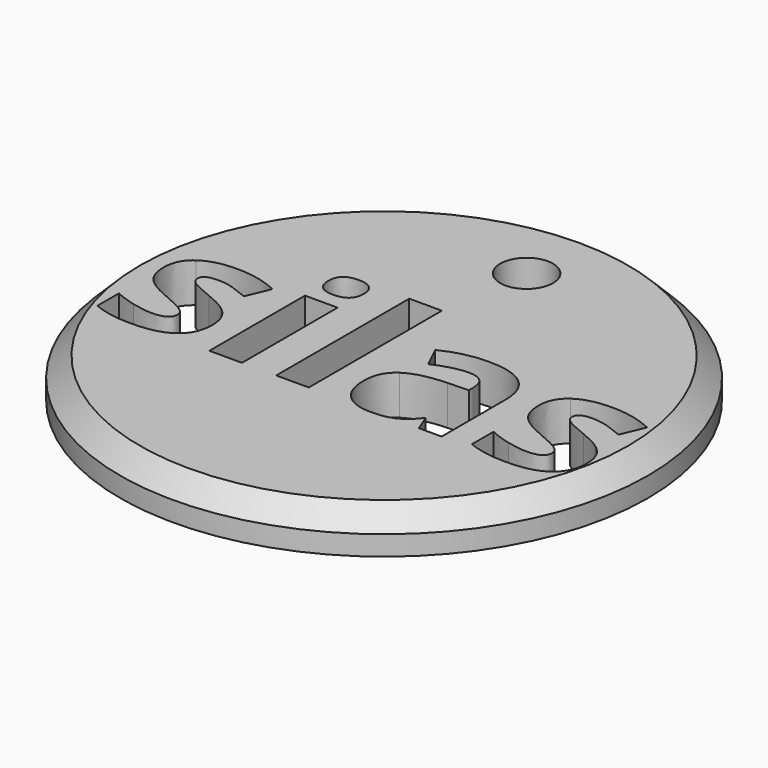
from build123d import *

# Parameters (mm, degrees)
F0_R     = 25.4
F0_W     = 3.1366467497
F0_H     = 11.499940969
F0_H_2   = 16.0057850407
F1_DEPTH = 3.81
F2_SIZE  = 1.905
F3_R     = 2.54
F4_DEPTH = 25.4


with BuildPart() as f1:
    # F0 (on Top) → F1 (new body)
    with BuildSketch(Plane.XY):
        Circle(F0_R)
        with BuildLine():
            add(Edge.make_bspline(
                [(-13.4895558275, -2.6972523911), (-13.1900439133, -3.3143785879), (-13.1900439133, -4.1668355744)],
                knots=[0, 0, 0, 1, 1, 1], degree=2))
            add(Edge.make_bspline(
                [(-13.1900439133, -4.1668355744), (-13.1900439133, -5.9375763418), (-14.4193592974, -6.864088472)],
                knots=[0, 0, 0, 1, 1, 1], degree=2))
            add(Edge.make_bspline(
                [(-14.4193592974, -6.864088472), (-15.6486746814, -7.7906006021), (-18.0974314304, -7.7906006021)],
                knots=[0, 0, 0, 1, 1, 1], degree=2))
            add(Edge.make_bspline(
                [(-18.0974314304, -7.7906006021), (-19.3514318624, -7.7906006021), (-20.2368022461, -7.6194509369)],
                knots=[0, 0, 0, 1, 1, 1], degree=2))
            add(Edge.make_bspline(
                [(-20.2368022461, -7.6194509369), (-21.1221726298, -7.4483012716), (-21.8923461234, -7.1191673)],
                knots=[0, 0, 0, 1, 1, 1], degree=2))
            Line((-21.8923461234, -7.1191673), (-21.8923461234, -4.5288829432))
            add(Edge.make_bspline(
                [(-21.8923461234, -4.5288829432), (-21.0201410986, -4.9403004078), (-19.924124973, -5.2184186138)],
                knots=[0, 0, 0, 1, 1, 1], degree=2))
            add(Edge.make_bspline(
                [(-19.924124973, -5.2184186138), (-18.8281088475, -5.4965368198), (-17.9953998992, -5.4965368198)],
                knots=[0, 0, 0, 1, 1, 1], degree=2))
            add(Edge.make_bspline(
                [(-17.9953998992, -5.4965368198), (-16.2871945864, -5.4965368198), (-16.2871945864, -4.5091349049)],
                knots=[0, 0, 0, 1, 1, 1], degree=2))
            add(Edge.make_bspline(
                [(-16.2871945864, -4.5091349049), (-16.2871945864, -4.137213517), (-16.5142970269, -3.905174067)],
                knots=[0, 0, 0, 1, 1, 1], degree=2))
            add(Edge.make_bspline(
                [(-16.5142970269, -3.905174067), (-16.7413994673, -3.673134617), (-17.2959902095, -3.3802053822)],
                knots=[0, 0, 0, 1, 1, 1], degree=2))
            add(Edge.make_bspline(
                [(-17.2959902095, -3.3802053822), (-17.8505809517, -3.0872761474), (-18.775447412, -2.6988980609)],
                knots=[0, 0, 0, 1, 1, 1], degree=2))
            add(Edge.make_bspline(
                [(-18.775447412, -2.6988980609), (-20.1018573177, -2.1426616489), (-20.7255661939, -1.6687087297)],
                knots=[0, 0, 0, 1, 1, 1], degree=2))
            add(Edge.make_bspline(
                [(-20.7255661939, -1.6687087297), (-21.3492750702, -1.1947558105), (-21.6306846159, -0.5825666233)],
                knots=[0, 0, 0, 1, 1, 1], degree=2))
            add(Edge.make_bspline(
                [(-21.6306846159, -0.5825666233), (-21.9120941617, 0.0296225639), (-21.9120941617, 0.9215756271)],
                knots=[0, 0, 0, 1, 1, 1], degree=2))
            add(Edge.make_bspline(
                [(-21.9120941617, 0.9215756271), (-21.9120941617, 2.4553399349), (-20.7255661939, 3.2929858927)],
                knots=[0, 0, 0, 1, 1, 1], degree=2))
            add(Edge.make_bspline(
                [(-20.7255661939, 3.2929858927), (-19.5390382262, 4.1306318505), (-17.3568799942, 4.1306318505)],
                knots=[0, 0, 0, 1, 1, 1], degree=2))
            add(Edge.make_bspline(
                [(-17.3568799942, 4.1306318505), (-15.2800446332, 4.1306318505), (-13.3151148225, 3.2255134285)],
                knots=[0, 0, 0, 1, 1, 1], degree=2))
            Line((-13.3151148225, 3.2255134285), (-14.2597293211, 0.9643630434))
            add(Edge.make_bspline(
                [(-14.2597293211, 0.9643630434), (-15.1253516665, 1.3329930916), (-15.8757771219, 1.5699695512)],
                knots=[0, 0, 0, 1, 1, 1], degree=2))
            add(Edge.make_bspline(
                [(-15.8757771219, 1.5699695512), (-16.6262025772, 1.8069460108), (-17.4095414297, 1.8069460108)],
                knots=[0, 0, 0, 1, 1, 1], degree=2))
            add(Edge.make_bspline(
                [(-17.4095414297, 1.8069460108), (-18.79848679, 1.8069460108), (-18.79848679, 1.0565205555)],
                knots=[0, 0, 0, 1, 1, 1], degree=2))
            add(Edge.make_bspline(
                [(-18.79848679, 1.0565205555), (-18.79848679, 0.6352290718), (-18.3508645886, 0.3258431384)],
                knots=[0, 0, 0, 1, 1, 1], degree=2))
            add(Edge.make_bspline(
                [(-18.3508645886, 0.3258431384), (-17.9032423872, 0.0164572051), (-16.3892261176, -0.5891493027)],
                knots=[0, 0, 0, 1, 1, 1], degree=2))
            add(Edge.make_bspline(
                [(-16.3892261176, -0.5891493027), (-15.0430681736, -1.1355116956), (-14.4160679577, -1.6078189449)],
                knots=[0, 0, 0, 1, 1, 1], degree=2))
            add(Edge.make_bspline(
                [(-14.4160679577, -1.6078189449), (-13.7890677417, -2.0801261942), (-13.4895558275, -2.6972523911)],
                knots=[0, 0, 0, 1, 1, 1], degree=2))
        make_face(mode=Mode.SUBTRACT)
        with Locations((-9.1762551292, -1.8332757155)):
            Rectangle(F0_W, F0_H, mode=Mode.SUBTRACT)
        with BuildLine():
            Line((11.60361817, -7.5832462), (9.4148772587, -7.5832462))
            Line((9.4148772587, -7.5832462), (8.8059794111, -6.0198598347))
            Line((8.8059794111, -6.0198598347), (8.7236959182, -6.0198598347))
            add(Edge.make_bspline(
                [(8.7236959182, -6.0198598347), (7.9337743863, -7.0171357688), (7.0944827586, -7.4038681855)],
                knots=[0, 0, 0, 1, 1, 1], degree=2))
            add(Edge.make_bspline(
                [(7.0944827586, -7.4038681855), (6.2551911309, -7.7906006021), (4.909033187, -7.7906006021)],
                knots=[0, 0, 0, 1, 1, 1], degree=2))
            add(Edge.make_bspline(
                [(4.909033187, -7.7906006021), (3.2534893096, -7.7906006021), (2.3022921316, -6.8426947638)],
                knots=[0, 0, 0, 1, 1, 1], degree=2))
            add(Edge.make_bspline(
                [(2.3022921316, -6.8426947638), (1.3510949536, -5.8947889255), (1.3510949536, -4.1470875361)],
                knots=[0, 0, 0, 1, 1, 1], degree=2))
            add(Edge.make_bspline(
                [(1.3510949536, -4.1470875361), (1.3510949536, -2.3171026538), (2.6314261032, -1.4481889687)],
                knots=[0, 0, 0, 1, 1, 1], degree=2))
            add(Edge.make_bspline(
                [(2.6314261032, -1.4481889687), (3.9117572529, -0.5792752836), (6.4921675905, -0.4871177715)],
                knots=[0, 0, 0, 1, 1, 1], degree=2))
            Line((6.4921675905, -0.4871177715), (8.4900107984, -0.4245823169))
            Line((8.4900107984, -0.4245823169), (8.4900107984, 0.0789926597))
            add(Edge.make_bspline(
                [(8.4900107984, 0.0789926597), (8.4900107984, 1.8266940491), (6.6995219927, 1.8266940491)],
                knots=[0, 0, 0, 1, 1, 1], degree=2))
            add(Edge.make_bspline(
                [(6.6995219927, 1.8266940491), (5.3204506515, 1.8266940491), (3.457552372, 0.9939851008)],
                knots=[0, 0, 0, 1, 1, 1], degree=2))
            Line((3.457552372, 0.9939851008), (2.4207803614, 3.1136078782))
            add(Edge.make_bspline(
                [(2.4207803614, 3.1136078782), (4.4054582104, 4.1536712286), (6.8213015622, 4.1536712286)],
                knots=[0, 0, 0, 1, 1, 1], degree=2))
            add(Edge.make_bspline(
                [(6.8213015622, 4.1536712286), (9.1351133828, 4.1536712286), (10.3693657764, 3.1448756055)],
                knots=[0, 0, 0, 1, 1, 1], degree=2))
            add(Edge.make_bspline(
                [(10.3693657764, 3.1448756055), (11.60361817, 2.1360799824), (11.60361817, 0.0789926597)],
                knots=[0, 0, 0, 1, 1, 1], degree=2))
            Line((11.60361817, 0.0789926597), (11.60361817, -7.5832462))
        make_face(mode=Mode.SUBTRACT)
        with BuildLine():
            add(Edge.make_bspline(
                [(22.5604880858, -2.6972523911), (22.86, -3.3143785879), (22.86, -4.1668355744)],
                knots=[0, 0, 0, 1, 1, 1], degree=2))
            add(Edge.make_bspline(
                [(22.86, -4.1668355744), (22.86, -5.9375763418), (21.6306846159, -6.864088472)],
                knots=[0, 0, 0, 1, 1, 1], degree=2))
            add(Edge.make_bspline(
                [(21.6306846159, -6.864088472), (20.4013692319, -7.7906006021), (17.9526124829, -7.7906006021)],
                knots=[0, 0, 0, 1, 1, 1], degree=2))
            add(Edge.make_bspline(
                [(17.9526124829, -7.7906006021), (16.698612051, -7.7906006021), (15.8132416673, -7.6194509369)],
                knots=[0, 0, 0, 1, 1, 1], degree=2))
            add(Edge.make_bspline(
                [(15.8132416673, -7.6194509369), (14.9278712836, -7.4483012716), (14.1576977899, -7.1191673)],
                knots=[0, 0, 0, 1, 1, 1], degree=2))
            Line((14.1576977899, -7.1191673), (14.1576977899, -4.5288829432))
            add(Edge.make_bspline(
                [(14.1576977899, -4.5288829432), (15.0299028148, -4.9403004078), (16.1259189403, -5.2184186138)],
                knots=[0, 0, 0, 1, 1, 1], degree=2))
            add(Edge.make_bspline(
                [(16.1259189403, -5.2184186138), (17.2219350659, -5.4965368198), (18.0546440141, -5.4965368198)],
                knots=[0, 0, 0, 1, 1, 1], degree=2))
            add(Edge.make_bspline(
                [(18.0546440141, -5.4965368198), (19.7628493269, -5.4965368198), (19.7628493269, -4.5091349049)],
                knots=[0, 0, 0, 1, 1, 1], degree=2))
            add(Edge.make_bspline(
                [(19.7628493269, -4.5091349049), (19.7628493269, -4.137213517), (19.5357468865, -3.905174067)],
                knots=[0, 0, 0, 1, 1, 1], degree=2))
            add(Edge.make_bspline(
                [(19.5357468865, -3.905174067), (19.308644446, -3.673134617), (18.7540537038, -3.3802053822)],
                knots=[0, 0, 0, 1, 1, 1], degree=2))
            add(Edge.make_bspline(
                [(18.7540537038, -3.3802053822), (18.1994629616, -3.0872761474), (17.2745965013, -2.6988980609)],
                knots=[0, 0, 0, 1, 1, 1], degree=2))
            add(Edge.make_bspline(
                [(17.2745965013, -2.6988980609), (15.9481865956, -2.1426616489), (15.3244777194, -1.6687087297)],
                knots=[0, 0, 0, 1, 1, 1], degree=2))
            add(Edge.make_bspline(
                [(15.3244777194, -1.6687087297), (14.7007688431, -1.1947558105), (14.4193592974, -0.5825666233)],
                knots=[0, 0, 0, 1, 1, 1], degree=2))
            add(Edge.make_bspline(
                [(14.4193592974, -0.5825666233), (14.1379497516, 0.0296225639), (14.1379497516, 0.9215756271)],
                knots=[0, 0, 0, 1, 1, 1], degree=2))
            add(Edge.make_bspline(
                [(14.1379497516, 0.9215756271), (14.1379497516, 2.4553399349), (15.3244777194, 3.2929858927)],
                knots=[0, 0, 0, 1, 1, 1], degree=2))
            add(Edge.make_bspline(
                [(15.3244777194, 3.2929858927), (16.5110056871, 4.1306318505), (18.6931639191, 4.1306318505)],
                knots=[0, 0, 0, 1, 1, 1], degree=2))
            add(Edge.make_bspline(
                [(18.6931639191, 4.1306318505), (20.7699992801, 4.1306318505), (22.7349290908, 3.2255134285)],
                knots=[0, 0, 0, 1, 1, 1], degree=2))
            Line((22.7349290908, 3.2255134285), (21.7903145922, 0.9643630434))
            add(Edge.make_bspline(
                [(21.7903145922, 0.9643630434), (20.9246922468, 1.3329930916), (20.1742667914, 1.5699695512)],
                knots=[0, 0, 0, 1, 1, 1], degree=2))
            add(Edge.make_bspline(
                [(20.1742667914, 1.5699695512), (19.4238413361, 1.8069460108), (18.6405024836, 1.8069460108)],
                knots=[0, 0, 0, 1, 1, 1], degree=2))
            add(Edge.make_bspline(
                [(18.6405024836, 1.8069460108), (17.2515571233, 1.8069460108), (17.2515571233, 1.0565205555)],
                knots=[0, 0, 0, 1, 1, 1], degree=2))
            add(Edge.make_bspline(
                [(17.2515571233, 1.0565205555), (17.2515571233, 0.6352290718), (17.6991793247, 0.3258431384)],
                knots=[0, 0, 0, 1, 1, 1], degree=2))
            add(Edge.make_bspline(
                [(17.6991793247, 0.3258431384), (18.1468015262, 0.0164572051), (19.6608177957, -0.5891493027)],
                knots=[0, 0, 0, 1, 1, 1], degree=2))
            add(Edge.make_bspline(
                [(19.6608177957, -0.5891493027), (21.0069757397, -1.1355116956), (21.6339759557, -1.6078189449)],
                knots=[0, 0, 0, 1, 1, 1], degree=2))
            add(Edge.make_bspline(
                [(21.6339759557, -1.6078189449), (22.2609761716, -2.0801261942), (22.5604880858, -2.6972523911)],
                knots=[0, 0, 0, 1, 1, 1], degree=2))
        make_face(mode=Mode.SUBTRACT)
        with Locations((-2.7482686632, 0.4196463203)):
            Rectangle(F0_W, F0_H_2, mode=Mode.SUBTRACT)
        with BuildLine():
            add(Edge.make_bspline(
                [(-9.1713181196, 5.3451362059), (-10.8795234324, 5.3451362059), (-10.8795234324, 6.8887745328)],
                knots=[0, 0, 0, 1, 1, 1], degree=2))
            add(Edge.make_bspline(
                [(-10.8795234324, 6.8887745328), (-10.8795234324, 8.4225388407), (-9.1713181196, 8.4225388407)],
                knots=[0, 0, 0, 1, 1, 1], degree=2))
            add(Edge.make_bspline(
                [(-9.1713181196, 8.4225388407), (-7.4631128069, 8.4225388407), (-7.4631128069, 6.8887745328)],
                knots=[0, 0, 0, 1, 1, 1], degree=2))
            add(Edge.make_bspline(
                [(-7.4631128069, 6.8887745328), (-7.4631128069, 6.1580971158), (-7.8893413001, 5.7516166608)],
                knots=[0, 0, 0, 1, 1, 1], degree=2))
            add(Edge.make_bspline(
                [(-7.8893413001, 5.7516166608), (-8.3155697934, 5.3451362059), (-9.1713181196, 5.3451362059)],
                knots=[0, 0, 0, 1, 1, 1], degree=2))
        make_face(mode=Mode.SUBTRACT)
    extrude(amount=F1_DEPTH)

    # F2
    f2_edges = [f1.edges().sort_by_distance(p)[0] for p in [
        (-25.4, 0, 3.81),
    ]]
    chamfer(f2_edges, length=F2_SIZE)

    # F3 (on face) → F4 (cut)
    with BuildSketch(Plane.XY.offset(3.81)):
        with Locations((0, 17.145)):
            Circle(F3_R)
    extrude(amount=-F4_DEPTH, mode=Mode.SUBTRACT)


solid = f1.part
